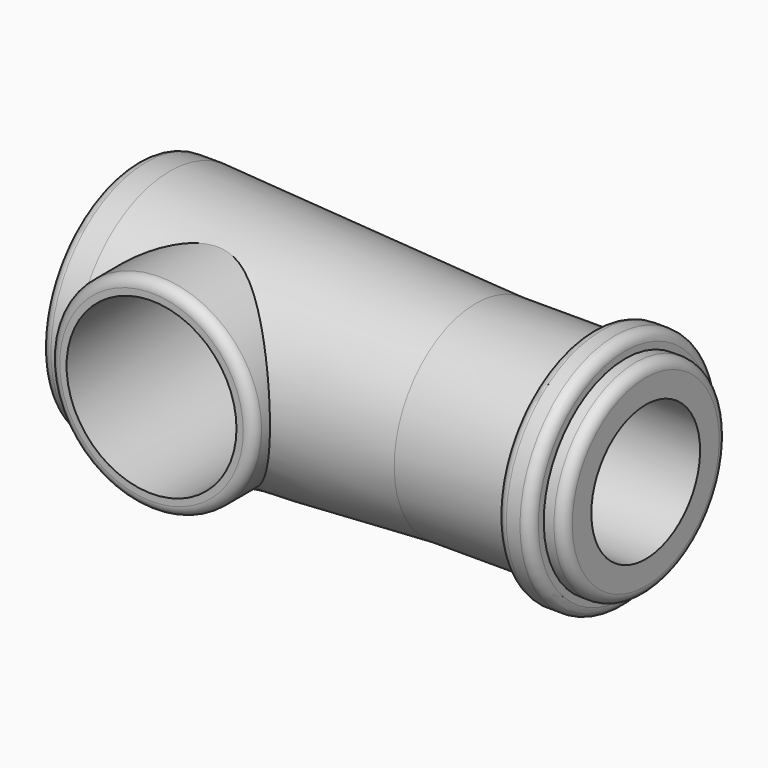
from build123d import *

# Parameters (mm, degrees)
F2_R     = 15
F3_DEPTH = 19
F4_R     = 12.5
F5_DEPTH = 25
F6_R     = 1.5


with BuildPart() as f1:
    # F0 (on Front) → F1 (revolve)
    with BuildSketch(Plane.XZ):
        Polygon((0, 17.5), (0, 0), (60, 0), (60, 10), (75, 10), (75, 15), (72, 15), (72, 17.5), (67, 17.5), (67, 15), (50, 15), (5, 17.5), align=None)
    revolve(axis=Axis((30, 0, 0), (-1, 0, 0)))

    # F2 (on Front) → F3 (join)
    with BuildSketch(Plane.XZ):
        with Locations((17.5, 0)):
            Circle(F2_R)
    extrude(amount=F3_DEPTH)

    # F4 (on face) → F5 (cut)
    with BuildSketch(Plane.XZ.offset(19)):
        with Locations((17.5, 0)):
            Circle(F4_R)
    extrude(amount=-F5_DEPTH, mode=Mode.SUBTRACT)

    # F6
    f6_edges = [f1.edges().sort_by_distance(p)[0] for p in [
        (0, 0, -17.5),
        (67, 0, -17.5),
        (72, 0, -17.5),
        (2.5, -19, 0),
        (75, 0, -15),
    ]]
    fillet(f6_edges, radius=F6_R)


solid = f1.part
